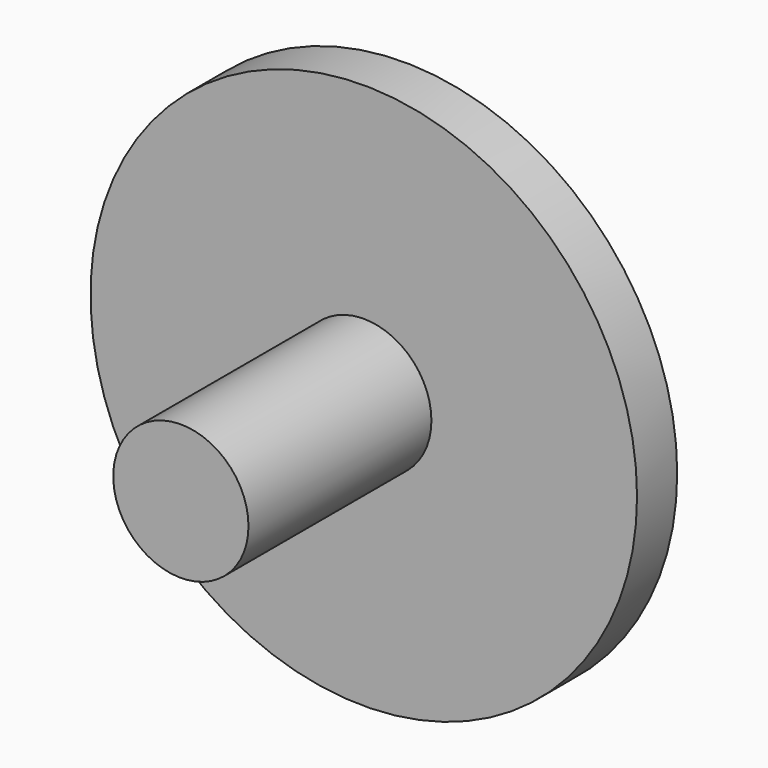
from build123d import *

# Parameters (mm, degrees)
F0_R     = 49
F0_R_2   = 12.125
F1_DEPTH = 9
F2_DEPTH = 50


with BuildPart() as f1:
    # F0 (on Front) → F1 (new body)
    with BuildSketch(Plane.XZ):
        Circle(F0_R)
        Circle(F0_R_2, mode=Mode.SUBTRACT)
        Circle(F0_R_2)
    extrude(amount=F1_DEPTH)

    # F0 (on Front) → F2 (join)
    with BuildSketch(Plane.XZ):
        Circle(F0_R_2)
    extrude(amount=F2_DEPTH)


solid = f1.part
